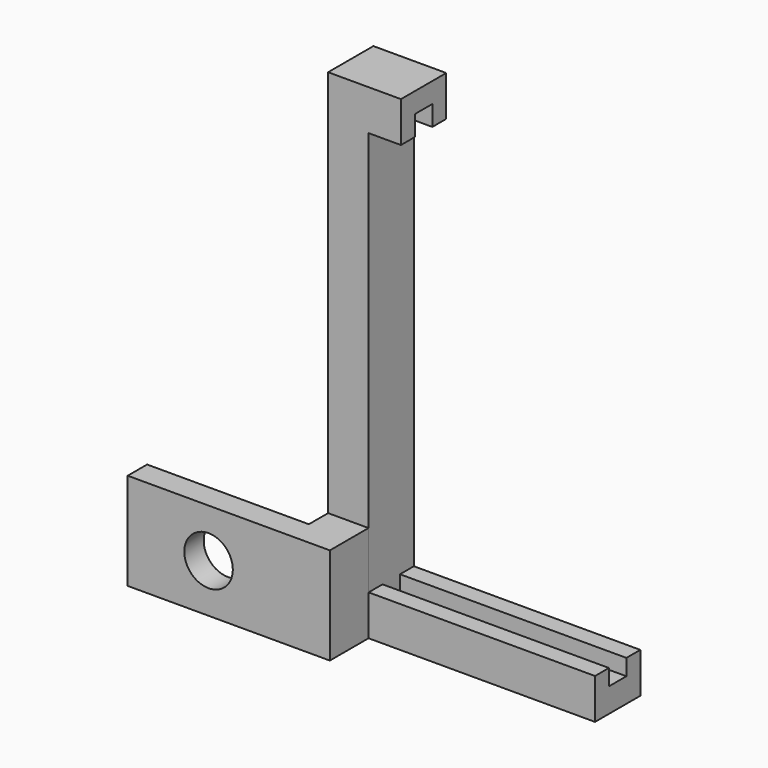
from build123d import *

# Parameters (mm, degrees)
PAD_DEPTH       = 12
SKETCH001_R     = 3
HOLE_DEPTH      = 13.001
PAD001_DEPTH    = 7
SKETCH003_W     = 28
SKETCH003_H     = 2.7
POCKET_DEPTH    = 2
SKETCH004_W     = 4
SKETCH004_H     = 2.7
POCKET001_DEPTH = 2.5


with BuildPart() as part:
    # Sketch → Pad (new body)
    with BuildSketch(Plane.XY):
        Polygon((-20, -10.081048), (5, -10.081048), (5, 2.918952), (0, 2.918952), (0, -7.081048), (-20, -7.081048), align=None)
    extrude(amount=PAD_DEPTH)

    # Sketch001 (on Face1 of Pad) → Hole (cut, through all)
    with BuildSketch(Plane.XZ.offset(10.081048)):
        with Locations((-10, 6)):
            Circle(SKETCH001_R)
    extrude(amount=-HOLE_DEPTH, mode=Mode.SUBTRACT)

    # Sketch002 → Pad001 (join)
    with BuildSketch(Plane.XZ.offset(-2.9)):
        Polygon((33.008904, 5), (33.008904, 0), (0, 0), (0, 11.991246), (0, 60), (9.008904, 60), (9.008904, 55), (5.008904, 55), (5.008904, 5), align=None)
    extrude(amount=PAD001_DEPTH)

    # Sketch003 (on Face15 of Pad001) → Pocket (cut)
    with BuildSketch(Plane(origin=(0, -6, 5), x_dir=(1, 0, 0), z_dir=(0, 0, 1))):
        with Locations((19.008904, 5.4)):
            Rectangle(SKETCH003_W, SKETCH003_H)
    extrude(amount=-POCKET_DEPTH, mode=Mode.SUBTRACT)

    # Sketch004 (on Face17 of Pocket) → Pocket001 (cut)
    with BuildSketch(Plane(origin=(54, 23, 55), x_dir=(1, 0, 0), z_dir=(0, 0, -1))):
        with Locations((-46.961428, 23.6)):
            Rectangle(SKETCH004_W, SKETCH004_H)
    extrude(amount=-POCKET001_DEPTH, mode=Mode.SUBTRACT)


solid = part.part
